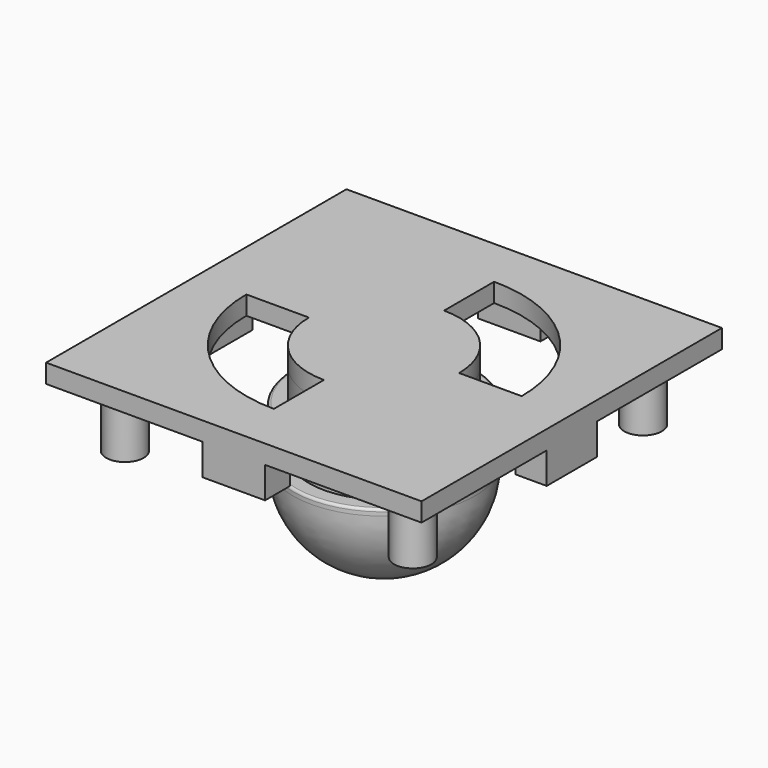
from build123d import *

# Parameters (mm, degrees)
FILLET_R      = 0.4
SKETCH001_W   = 60
SKETCH001_H   = 60
PAD_DEPTH     = 3
SKETCH002_R   = 3
SKETCH002_R_2 = 1.5
PAD001_DEPTH  = 10
SKETCH003_W   = 10
SKETCH003_H   = 5
SKETCH003_W_2 = 5
SKETCH003_H_2 = 10
PAD002_DEPTH  = 5
POCKET_DEPTH  = 3


with BuildPart() as part:
    # Sketch → Revolution (revolve)
    with BuildSketch(Plane.XZ):
        with BuildLine():
            Line((0, 0), (0, -28))
            ThreePointArc((-14.5, -13.5), (-10.253048, -23.753048), (0, -28))
            Line((-14.5, -13.5), (-14.5, -12.5))
            Line((-14.5, -12.5), (-12, -12.5))
            Line((-12, -12.5), (-12, -10))
            Line((-12, -10), (-14.5, -10))
            Line((-14.5, -10), (-14.5, -5))
            Line((-14.5, -5), (-12, -5))
            Line((-12, -5), (-12, 0))
            Line((-12, 0), (0, 0))
        make_face()
    revolve(axis=Axis((0, 0, 0), (0, 0, 1)))

    # Fillet
    fillet_edges = [part.edges().sort_by_distance(p)[0] for p in [
        (14.5, 0, -5),
        (14.5, 0, -12.5),
    ]]
    fillet(fillet_edges, radius=FILLET_R)

    # Sketch001 (on Face11 of Fillet) → Pad (new body)
    with BuildSketch(Plane(origin=(0, 0, 0), x_dir=(-1, 0, 0), z_dir=(0, 0, 1))):
        Rectangle(SKETCH001_W, SKETCH001_H)
    extrude(amount=PAD_DEPTH)

    # Sketch002 (on Face4 of Pad) → Pad001 (join)
    with BuildSketch(Plane(origin=(0, 0, 0), x_dir=(1, 0, 0), z_dir=(0, 0, -1))):
        with Locations((-23, 23)):
            Circle(SKETCH002_R)
        with Locations((-23, 23)):
            Circle(SKETCH002_R_2, mode=Mode.SUBTRACT)
        with Locations((23, 23)):
            Circle(SKETCH002_R)
        with Locations((23, 23)):
            Circle(SKETCH002_R_2, mode=Mode.SUBTRACT)
        with Locations((23, -23)):
            Circle(SKETCH002_R)
        with Locations((23, -23)):
            Circle(SKETCH002_R_2, mode=Mode.SUBTRACT)
        with Locations((-23, -23)):
            Circle(SKETCH002_R)
        with Locations((-23, -23)):
            Circle(SKETCH002_R_2, mode=Mode.SUBTRACT)
    extrude(amount=PAD001_DEPTH)

    # Sketch003 (on Face4 of Pad001) → Pad002 (join)
    with BuildSketch(Plane(origin=(0, 0, 0), x_dir=(1, 0, 0), z_dir=(0, 0, -1))):
        with Locations((0, 27.5)):
            Rectangle(SKETCH003_W, SKETCH003_H)
        with Locations((27.5, 0)):
            Rectangle(SKETCH003_W_2, SKETCH003_H_2)
        with Locations((0, -27.5)):
            Rectangle(SKETCH003_W, SKETCH003_H)
        with Locations((-27.5, 0)):
            Rectangle(SKETCH003_W_2, SKETCH003_H_2)
    extrude(amount=PAD002_DEPTH)

    # Sketch004 (on Face6 of Pad002) → Pocket (cut)
    with BuildSketch(Plane(origin=(0, 0, 3), x_dir=(-1, 0, 0), z_dir=(0, 0, 1))):
        with BuildLine():
            ThreePointArc((12, 0), (8.485281, 8.485281), (0, 12))
            Line((0, 12), (0, 22))
            ThreePointArc((22, 0), (15.556349, 15.556349), (0, 22))
            Line((12, 0), (22, 0))
        make_face()
        with BuildLine():
            ThreePointArc((-12, 0), (-8.485281, -8.485281), (0, -12))
            Line((0, -12), (0, -22))
            ThreePointArc((-22, 0), (-15.556349, -15.556349), (0, -22))
            Line((-12, 0), (-22, 0))
        make_face()
    extrude(amount=-POCKET_DEPTH, mode=Mode.SUBTRACT)


solid = part.part
